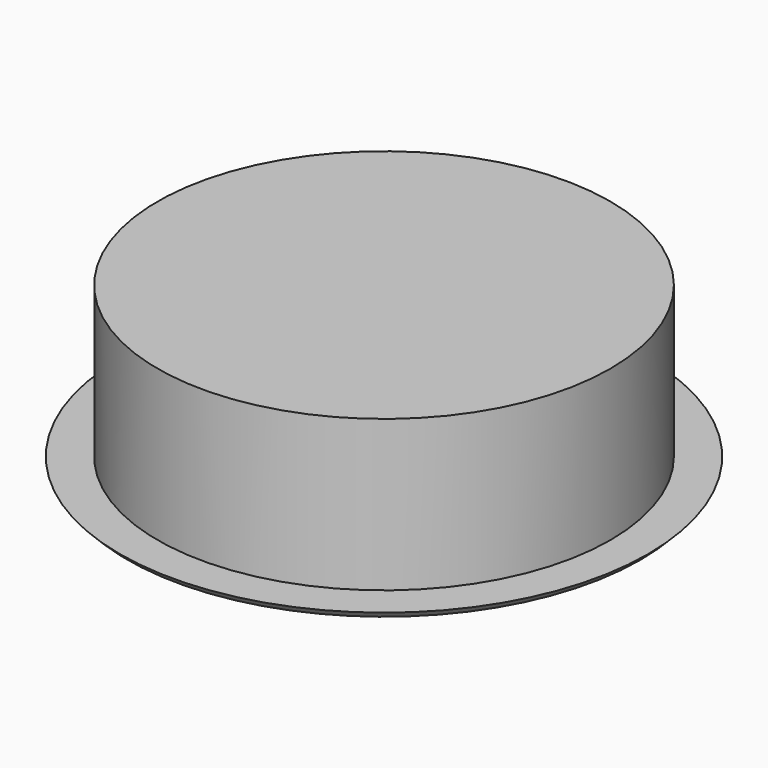
from build123d import *

# Parameters (mm, degrees)
SKETCH_R     = 30
PAD_DEPTH    = 20
SKETCH001_R  = 35
PAD001_DEPTH = 1
PAD001_TAPER = 45


with BuildPart() as part:
    # Sketch (on XY_Plane of Origin) → Pad (new body)
    with BuildSketch(Plane.XY):
        Circle(SKETCH_R)
    extrude(amount=PAD_DEPTH)

    # Sketch001 (on Face2 of Pad) → Pad001 (join)
    with BuildSketch(Plane(origin=(0, 0, 0), x_dir=(1, 0, 0), z_dir=(0, 0, -1))):
        Circle(SKETCH001_R)
    extrude(amount=PAD001_DEPTH, taper=PAD001_TAPER)


solid = part.part
